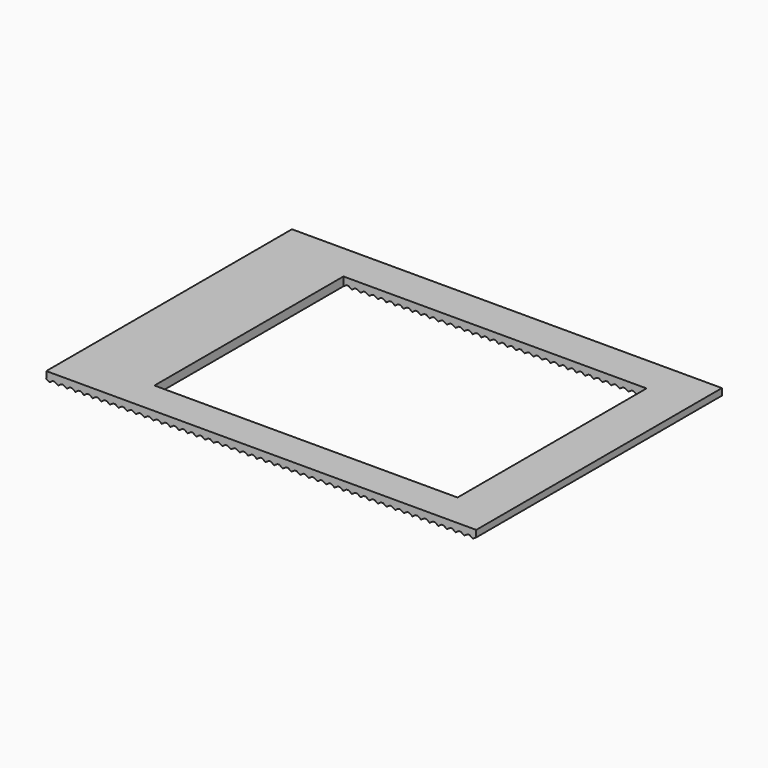
from build123d import *

# Parameters (mm, degrees)
SKETCH044_W         = 49
SKETCH044_H         = 35
PAD_DEPTH           = 0.762
PAD024_DEPTH        = 35
LINEARPATTERN_COUNT = 50
LINEARPATTERN_PITCH = 0.984898
SKETCH047_W         = 34.544
SKETCH047_H         = 26.924
POCKET023_DEPTH     = 1.017


with BuildPart() as part:
    # Sketch044 → Pad (new body)
    with BuildSketch(Plane.XY.offset(9.3853)):
        with Locations((0, 19)):
            Rectangle(SKETCH044_W, SKETCH044_H)
    extrude(amount=-PAD_DEPTH)

    # Sketch046 → Pad024 (new body)
    with BuildSketch(Plane(origin=(0, 36.5, 9.3853), x_dir=(-1, 0, 0), z_dir=(0, 1, 0))):
        Polygon((-24.119, -1.016), (-24.5, -0.762), (-23.738, -0.762), align=None)
    pad024 = extrude(amount=-PAD024_DEPTH)

    # LinearPattern: Pad024 ×50
    with Locations(*[(-i * LINEARPATTERN_PITCH, 0, 0) for i in range(1, LINEARPATTERN_COUNT)]):
        add(pad024)

    # Sketch047 → Pocket023 (cut, through all)
    with BuildSketch(Plane.XY.offset(9.3853)):
        with Locations((2.032, 18.796)):
            Rectangle(SKETCH047_W, SKETCH047_H)
    extrude(amount=-POCKET023_DEPTH, mode=Mode.SUBTRACT)


solid = part.part
